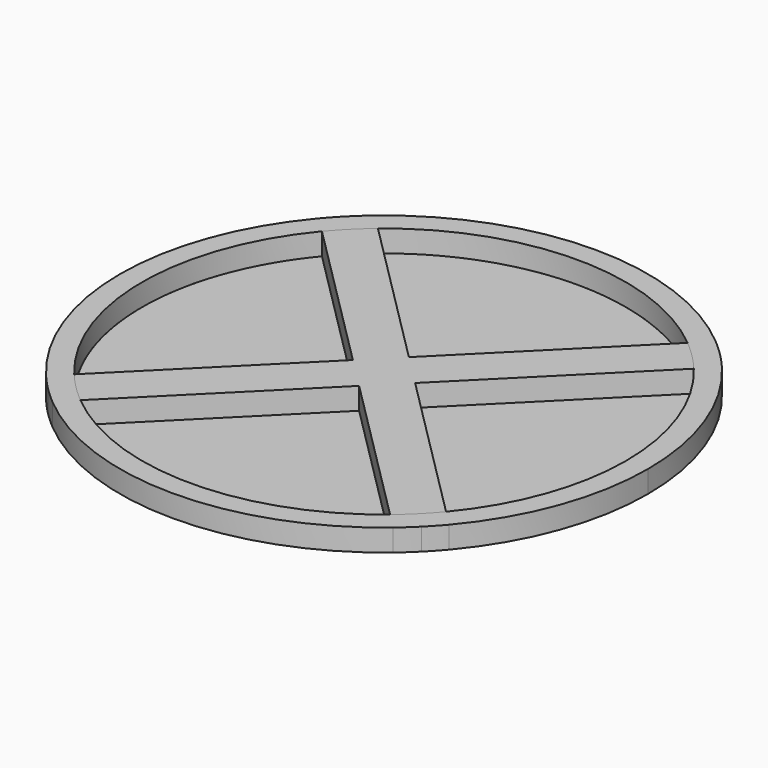
from build123d import *

# Parameters (mm, degrees)
F1_DEPTH = 6.35
F2_DEPTH = 6.35
F3_R     = 69.85
F4_DEPTH = 0.0254


with BuildPart() as f1:
    # F0 (on Top) → F1 (new body)
    with BuildSketch(Plane.XY):
        with BuildLine():
            Line((4.4900874473, 4.4901686749), (49.390961912, 49.3918554157))
            ThreePointArc((49.390961912, 49.3918554157), (47.092393774, 51.5880698285), (44.6962749187, 53.6774208433))
            Line((44.6962749187, 53.6774208433), (-8.12276e-05, 8.9802561207))
            Line((-8.12276e-05, 8.9802561207), (-44.6972459502, 53.676612267))
            ThreePointArc((-44.6972459502, 53.676612267), (-47.0933270082, 51.5872179062), (-49.3918554157, 49.390961912))
            Line((-49.3918554157, 49.390961912), (-4.4901686749, 4.4900874473))
            Line((-4.4901686749, 4.4900874473), (8.12276e-05, 8.9802561207))
            Line((8.12276e-05, 8.9802561207), (4.4900874473, 4.4901686749))
        make_face()
        with BuildLine():
            Line((-4.4901686749, 4.4900874473), (-49.3918554157, 49.390961912))
            ThreePointArc((-49.3918554157, 49.390961912), (-51.5880698285, 47.092393774), (-53.6774208433, 44.6962749187))
            Line((-53.6774208433, 44.6962749187), (-8.9803373498, 0))
            Line((-8.9803373498, 0), (-4.4901686749, 4.4900874473))
        make_face()
        with BuildLine():
            Line((-49.3918554157, -49.390961912), (-4.4901686749, -4.4900874473))
            Line((-4.4901686749, -4.4900874473), (-8.9803373498, 0))
            Line((-8.9803373498, 0), (-53.6774208433, -44.6962749187))
            ThreePointArc((-53.6774208433, -44.6962749187), (-51.5880698285, -47.092393774), (-49.3918554157, -49.390961912))
        make_face()
        with BuildLine():
            ThreePointArc((44.6962749187, -53.6774208433), (47.092393774, -51.5880698285), (49.390961912, -49.3918554157))
            Line((49.390961912, -49.3918554157), (4.4900874473, -4.4901686749))
            Line((4.4900874473, -4.4901686749), (8.12276e-05, -8.9802561207))
            Line((8.12276e-05, -8.9802561207), (-4.4901686749, -4.4900874473))
            Line((-4.4901686749, -4.4900874473), (-49.3918554157, -49.390961912))
            ThreePointArc((-49.3918554157, -49.390961912), (-47.0933270082, -51.5872179062), (-44.6972459502, -53.676612267))
            Line((-44.6972459502, -53.676612267), (-8.12276e-05, -8.9802561207))
            Line((-8.12276e-05, -8.9802561207), (44.6962749187, -53.6774208433))
        make_face()
        Polygon((8.12276e-05, -8.9802561207), (4.4900874473, -4.4901686749), (0, 0), (-4.4901686749, -4.4900874473), align=None)
        Polygon((-4.4901686749, -4.4900874473), (0, 0), (-4.4901686749, 4.4900874473), (-8.9803373498, 0), align=None)
        Polygon((0, 0), (4.4900874473, 4.4901686749), (8.12276e-05, 8.9802561207), (-4.4901686749, 4.4900874473), align=None)
        Polygon((4.4900874473, -4.4901686749), (8.9801748946, 0), (4.4900874473, 4.4901686749), (0, 0), align=None)
        with BuildLine():
            ThreePointArc((44.6962749187, -53.6774208433), (47.092393774, -51.5880698285), (49.390961912, -49.3918554157))
            Line((49.390961912, -49.3918554157), (4.4900874473, -4.4901686749))
            Line((4.4900874473, -4.4901686749), (8.12276e-05, -8.9802561207))
            Line((8.12276e-05, -8.9802561207), (-4.4901686749, -4.4900874473))
            Line((-4.4901686749, -4.4900874473), (-49.3918554157, -49.390961912))
            ThreePointArc((-49.3918554157, -49.390961912), (-47.0933270082, -51.5872179062), (-44.6972459502, -53.676612267))
            Line((-44.6972459502, -53.676612267), (-8.12276e-05, -8.9802561207))
            Line((-8.12276e-05, -8.9802561207), (44.6962749187, -53.6774208433))
        make_face()
        with BuildLine():
            ThreePointArc((49.390961912, -49.3918554157), (51.5872179062, -47.0933270082), (53.676612267, -44.6972459502))
            Line((53.676612267, -44.6972459502), (8.9801748946, 0))
            Line((8.9801748946, 0), (4.4900874473, -4.4901686749))
            Line((4.4900874473, -4.4901686749), (49.390961912, -49.3918554157))
        make_face()
        with BuildLine():
            Line((8.9801748946, 0), (53.676612267, 44.6972459502))
            ThreePointArc((53.676612267, 44.6972459502), (51.5872179062, 47.0933270082), (49.390961912, 49.3918554157))
            Line((49.390961912, 49.3918554157), (4.4900874473, 4.4901686749))
            Line((4.4900874473, 4.4901686749), (8.9801748946, 0))
        make_face()
        with BuildLine():
            Line((4.4900874473, 4.4901686749), (49.390961912, 49.3918554157))
            ThreePointArc((49.390961912, 49.3918554157), (47.092393774, 51.5880698285), (44.6962749187, 53.6774208433))
            Line((44.6962749187, 53.6774208433), (-8.12276e-05, 8.9802561207))
            Line((-8.12276e-05, 8.9802561207), (-44.6972459502, 53.676612267))
            ThreePointArc((-44.6972459502, 53.676612267), (-47.0933270082, 51.5872179062), (-49.3918554157, 49.390961912))
            Line((-49.3918554157, 49.390961912), (-4.4901686749, 4.4900874473))
            Line((-4.4901686749, 4.4900874473), (8.12276e-05, 8.9802561207))
            Line((8.12276e-05, 8.9802561207), (4.4900874473, 4.4901686749))
        make_face()
    extrude(amount=F1_DEPTH)


with BuildPart() as f2:
    # F0 (on Top) → F2 (new body)
    with BuildSketch(Plane.XY):
        with BuildLine():
            ThreePointArc((58.1838051193, -49.2045203395), (71.5543358228, -26.1995615413), (76.2, 0))
            ThreePointArc((76.2, 0), (71.5543358228, 26.1995615413), (58.1838051193, 49.2045203395))
            Line((58.1838051193, 49.2045203395), (53.676612267, 44.6972459502))
            ThreePointArc((53.676612267, 44.6972459502), (65.6823182708, 23.7666902739), (69.85, 0))
            ThreePointArc((69.85, 0), (65.6823182708, -23.7666902739), (53.676612267, -44.6972459502))
            Line((53.676612267, -44.6972459502), (58.1838051193, -49.2045203395))
        make_face()
        with BuildLine():
            Line((53.676612267, 44.6972459502), (58.1838051193, 49.2045203395))
            ThreePointArc((58.1838051193, 49.2045203395), (56.0812148818, 51.5881511336), (53.8810493586, 53.8820240899))
            Line((53.8810493586, 53.8820240899), (49.390961912, 49.3918554157))
            ThreePointArc((49.390961912, 49.3918554157), (51.5872179062, 47.0933270082), (53.676612267, 44.6972459502))
        make_face()
        with BuildLine():
            ThreePointArc((53.8810493586, -53.8820240899), (56.0812148818, -51.5881511336), (58.1838051193, -49.2045203395))
            Line((58.1838051193, -49.2045203395), (53.676612267, -44.6972459502))
            ThreePointArc((53.676612267, -44.6972459502), (51.5872179062, -47.0933270082), (49.390961912, -49.3918554157))
            Line((49.390961912, -49.3918554157), (53.8810493586, -53.8820240899))
        make_face()
        with BuildLine():
            Line((49.390961912, 49.3918554157), (53.8810493586, 53.8820240899))
            ThreePointArc((53.8810493586, 53.8820240899), (51.5871366011, 56.082148116), (49.203467771, 58.1846952326))
            Line((49.203467771, 58.1846952326), (44.6962749187, 53.6774208433))
            ThreePointArc((44.6962749187, 53.6774208433), (47.092393774, 51.5880698285), (49.390961912, 49.3918554157))
        make_face()
        with BuildLine():
            ThreePointArc((49.203467771, -58.1846952326), (51.5871366011, -56.082148116), (53.8810493586, -53.8820240899))
            Line((53.8810493586, -53.8820240899), (49.390961912, -49.3918554157))
            ThreePointArc((49.390961912, -49.3918554157), (47.092393774, -51.5880698285), (44.6962749187, -53.6774208433))
            Line((44.6962749187, -53.6774208433), (49.203467771, -58.1846952326))
        make_face()
        with BuildLine():
            Line((44.6962749187, 53.6774208433), (49.203467771, 58.1846952326))
            ThreePointArc((49.203467771, 58.1846952326), (-0.0006892391, 76.1999999969), (-49.2045203395, 58.1838051193))
            Line((-49.2045203395, 58.1838051193), (-44.6972459502, 53.676612267))
            ThreePointArc((-44.6972459502, 53.676612267), (-0.0006318025, 69.8499999971), (44.6962749187, 53.6774208433))
        make_face()
        with BuildLine():
            ThreePointArc((-49.2045203395, -58.1838051193), (-0.0006892391, -76.1999999969), (49.203467771, -58.1846952326))
            Line((49.203467771, -58.1846952326), (44.6962749187, -53.6774208433))
            ThreePointArc((44.6962749187, -53.6774208433), (-0.0006318025, -69.8499999971), (-44.6972459502, -53.676612267))
            Line((-44.6972459502, -53.676612267), (-49.2045203395, -58.1838051193))
        make_face()
        with BuildLine():
            Line((-44.6972459502, 53.676612267), (-49.2045203395, 58.1838051193))
            ThreePointArc((-49.2045203395, 58.1838051193), (-51.5881511336, 56.0812148818), (-53.8820240899, 53.8810493586))
            Line((-53.8820240899, 53.8810493586), (-49.3918554157, 49.390961912))
            ThreePointArc((-49.3918554157, 49.390961912), (-47.0933270082, 51.5872179062), (-44.6972459502, 53.676612267))
        make_face()
        with BuildLine():
            ThreePointArc((-53.8820240899, -53.8810493586), (-51.5881511336, -56.0812148818), (-49.2045203395, -58.1838051193))
            Line((-49.2045203395, -58.1838051193), (-44.6972459502, -53.676612267))
            ThreePointArc((-44.6972459502, -53.676612267), (-47.0933270082, -51.5872179062), (-49.3918554157, -49.390961912))
            Line((-49.3918554157, -49.390961912), (-53.8820240899, -53.8810493586))
        make_face()
        with BuildLine():
            Line((-49.3918554157, 49.390961912), (-53.8820240899, 53.8810493586))
            ThreePointArc((-53.8820240899, 53.8810493586), (-56.082148116, 51.5871366011), (-58.1846952326, 49.203467771))
            Line((-58.1846952326, 49.203467771), (-53.6774208433, 44.6962749187))
            ThreePointArc((-53.6774208433, 44.6962749187), (-51.5880698285, 47.092393774), (-49.3918554157, 49.390961912))
        make_face()
        with BuildLine():
            ThreePointArc((-58.1846952326, -49.203467771), (-56.082148116, -51.5871366011), (-53.8820240899, -53.8810493586))
            Line((-53.8820240899, -53.8810493586), (-49.3918554157, -49.390961912))
            ThreePointArc((-49.3918554157, -49.390961912), (-51.5880698285, -47.092393774), (-53.6774208433, -44.6962749187))
            Line((-53.6774208433, -44.6962749187), (-58.1846952326, -49.203467771))
        make_face()
        with BuildLine():
            Line((-53.6774208433, 44.6962749187), (-58.1846952326, 49.203467771))
            ThreePointArc((-58.1846952326, 49.203467771), (-76.2, 0), (-58.1846952326, -49.203467771))
            Line((-58.1846952326, -49.203467771), (-53.6774208433, -44.6962749187))
            ThreePointArc((-53.6774208433, -44.6962749187), (-69.85, 0), (-53.6774208433, 44.6962749187))
        make_face()
    extrude(amount=F2_DEPTH)


with BuildPart() as f4:
    # F3 (on Top) → F4 (new body)
    with BuildSketch(Plane.XY):
        Circle(F3_R)
    extrude(amount=F4_DEPTH)


solid = Compound([f1.part, f2.part, f4.part])
